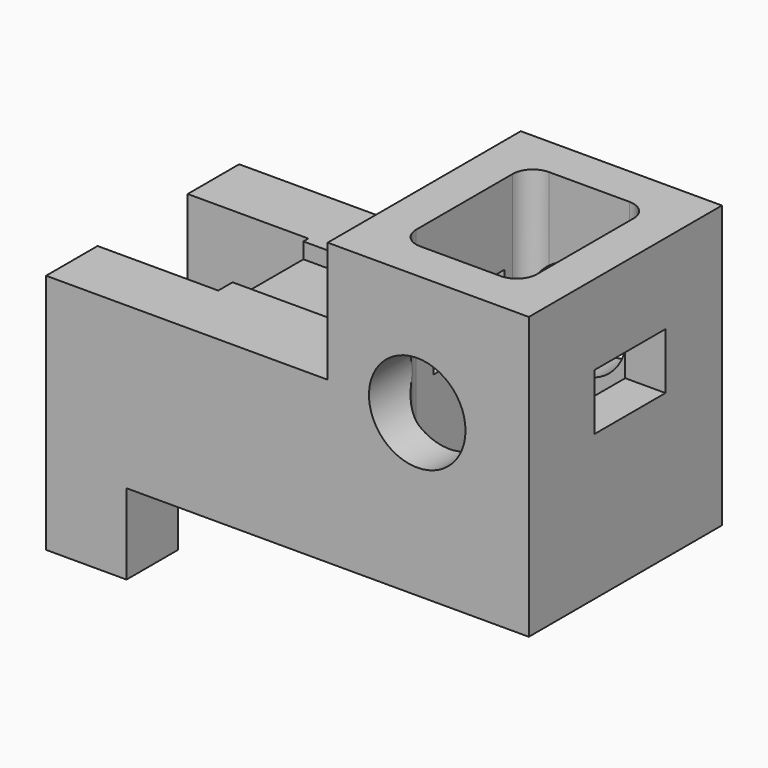
from build123d import *

# Parameters (mm, degrees)
F1_DEPTH  = 1524
F2_W      = 762
F2_H      = 711.2
F3_DEPTH  = 1524
F4_R      = 304.8
F5_DEPTH  = 1524
F7_DEPTH  = 2286.001
F9_W      = 558.8
F9_H      = 355.6
F10_DEPTH = 3048.001


with BuildPart() as f1:
    # F0 (on Front) → F1 (new body)
    with BuildSketch(Plane.XZ):
        Polygon((0, 762), (0, 0), (-1778, 0), (-1778, -1016), (-1778, -1524), (-1270, -1524), (-1270, -1016), (1270, -1016), (1270, 762), align=None)
    extrude(amount=F1_DEPTH)

    # F2 (on face) → F3 (cut)
    with BuildSketch(Plane.XY):
        with Locations((-1397, -762)):
            Rectangle(F2_W, F2_H)
    extrude(amount=-F3_DEPTH, mode=Mode.SUBTRACT)

    # F4 (on face) → F5 (cut)
    with BuildSketch(Plane.XZ.offset(1524)):
        with Locations((565.36006, 0)):
            Circle(F4_R)
    extrude(amount=-F5_DEPTH, mode=Mode.SUBTRACT)

    # F6 (on face) → F7 (cut, through all)
    with BuildSketch(Plane.XY.offset(762)):
        with BuildLine():
            Line((381, -1270), (889, -1270))
            ThreePointArc((889, -1270), (978.802561, -1232.802561), (1016, -1143))
            Line((1016, -1143), (1016, -381))
            ThreePointArc((1016, -381), (978.802561, -291.197439), (889, -254))
            Line((889, -254), (381, -254))
            ThreePointArc((381, -254), (291.197439, -291.197439), (254, -381))
            Line((254, -381), (254, -1143))
            ThreePointArc((254, -1143), (291.197439, -1232.802561), (381, -1270))
        make_face()
    extrude(amount=-F7_DEPTH, mode=Mode.SUBTRACT)

    # F9 (on face) → F10 (cut, through all)
    with BuildSketch(Plane.YZ.offset(1270)):
        with Locations((-724.964005, 78.401349)):
            Rectangle(F9_W, F9_H)
    extrude(amount=-F10_DEPTH, mode=Mode.SUBTRACT)


solid = f1.part
